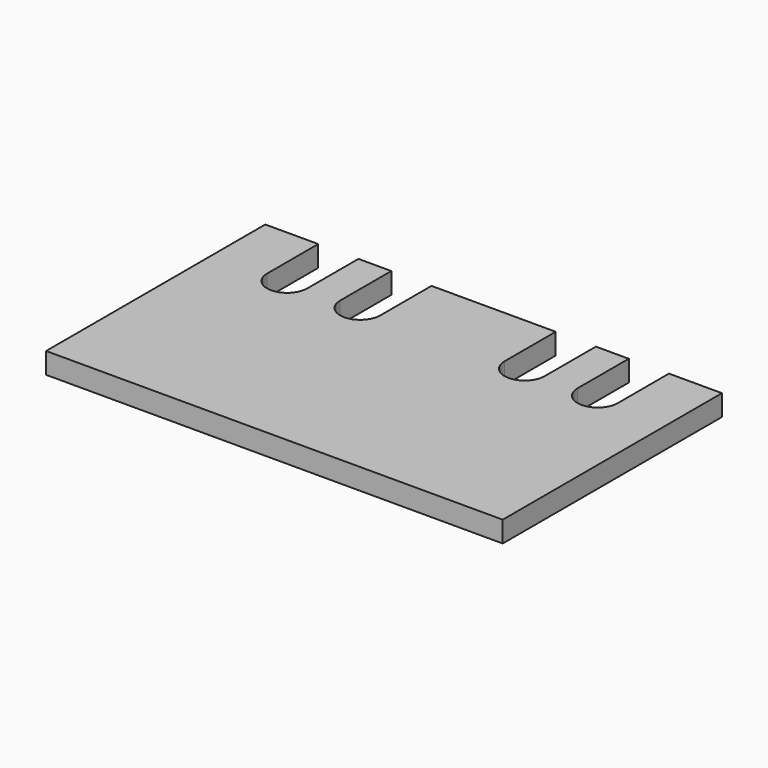
from build123d import *

# Parameters (mm, degrees)
PAD_DEPTH = 2.3


with BuildPart() as part:
    # Sketch → Pad (new body)
    with BuildSketch(Plane.XY):
        with BuildLine():
            Line((0, 0), (50, 0))
            Line((50, 0), (50, 30))
            Line((44.2, 30), (50, 30))
            Line((44.2, 30), (44.2, 23))
            ThreePointArc((39.8, 23), (42, 20.8), (44.2, 23))
            Line((39.8, 23), (39.8, 30))
            Line((39.8, 30), (36.2, 30))
            Line((36.2, 30), (36.2, 23))
            ThreePointArc((31.8, 23), (34, 20.8), (36.2, 23))
            Line((31.8, 23), (31.8, 30))
            Line((31.8, 30), (18.2, 30))
            Line((18.2, 30), (18.2, 23))
            ThreePointArc((13.8, 23), (16, 20.8), (18.2, 23))
            Line((13.8, 23), (13.8, 30))
            Line((13.8, 30), (10.2, 30))
            Line((10.2, 30), (10.2, 23))
            ThreePointArc((5.8, 23), (8, 20.8), (10.2, 23))
            Line((5.8, 23), (5.8, 30))
            Line((5.8, 30), (0, 30))
            Line((0, 30), (0, 0))
        make_face()
    extrude(amount=PAD_DEPTH)


solid = part.part
